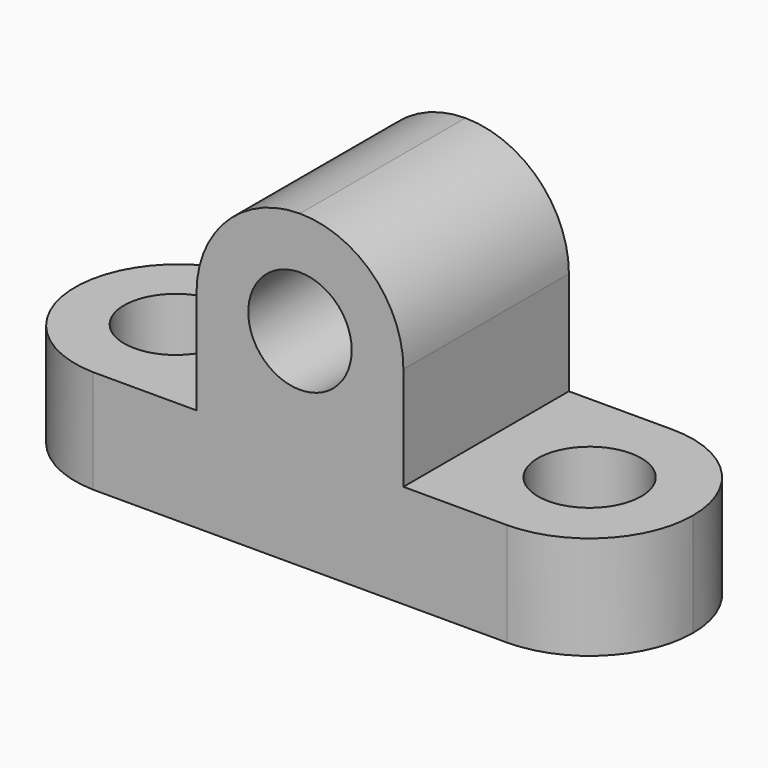
from build123d import *

# Parameters (mm, degrees)
F1_DEPTH = 25.4
F2_R     = 6.35
F3_DEPTH = 25.4
F4_R     = 6.35
F5_DEPTH = 25.4
F6_R     = 6.35
F7_DEPTH = 25.4


with BuildPart() as f1:
    # F0 (on Front) → F1 (new body)
    with BuildSketch(Plane.XZ):
        Polygon((-13.694073, 16.45344), (-39.094073, 16.45344), (-39.094073, 3.75344), (37.105927, 3.75344), (37.105927, 16.45344), (11.705927, 16.45344), (11.705927, 41.85344), (-13.694073, 41.85344), align=None)
    extrude(amount=F1_DEPTH)

    # F2 (on face) → F3 (cut)
    with BuildSketch(Plane.XZ.offset(25.4)):
        with Locations((-0.994073, 29.15344)):
            Circle(F2_R)
        with BuildLine():
            ThreePointArc((-13.694073, 29.15344), (-9.974329, 38.133696), (-0.994073, 41.85344))
            Line((-0.994073, 41.85344), (-13.694073, 41.85344))
            Line((-13.694073, 41.85344), (-13.694073, 29.15344))
        make_face()
        with BuildLine():
            ThreePointArc((-0.994073, 41.85344), (7.986183, 38.133696), (11.705927, 29.15344))
            Line((11.705927, 29.15344), (11.705927, 41.85344))
            Line((11.705927, 41.85344), (-0.994073, 41.85344))
        make_face()
    extrude(amount=-F3_DEPTH, mode=Mode.SUBTRACT)

    # F4 (on face) → F5 (cut)
    with BuildSketch(Plane.XY.offset(16.45344)):
        with Locations((-26.394073, -12.7)):
            Circle(F4_R)
        with BuildLine():
            ThreePointArc((-26.394073, -25.4), (-38.757753, -12.7), (-26.394073, 0))
            Line((-26.394073, 0), (-39.094073, 0))
            Line((-39.094073, 0), (-39.094073, -25.4))
            Line((-39.094073, -25.4), (-26.394073, -25.4))
        make_face()
    extrude(amount=-F5_DEPTH, mode=Mode.SUBTRACT)

    # F6 (on face) → F7 (cut)
    with BuildSketch(Plane.XY.offset(16.45344)):
        with Locations((24.405927, -12.7)):
            Circle(F6_R)
        with BuildLine():
            ThreePointArc((24.405927, 0), (33.386183, -3.719744), (37.105927, -12.7))
            Line((37.105927, -12.7), (37.105927, 0))
            Line((37.105927, 0), (24.405927, 0))
        make_face()
        with BuildLine():
            ThreePointArc((37.105927, -12.7), (33.386183, -21.680256), (24.405927, -25.4))
            Line((24.405927, -25.4), (37.105927, -25.4))
            Line((37.105927, -25.4), (37.105927, -12.7))
        make_face()
    extrude(amount=-F7_DEPTH, mode=Mode.SUBTRACT)


solid = f1.part
